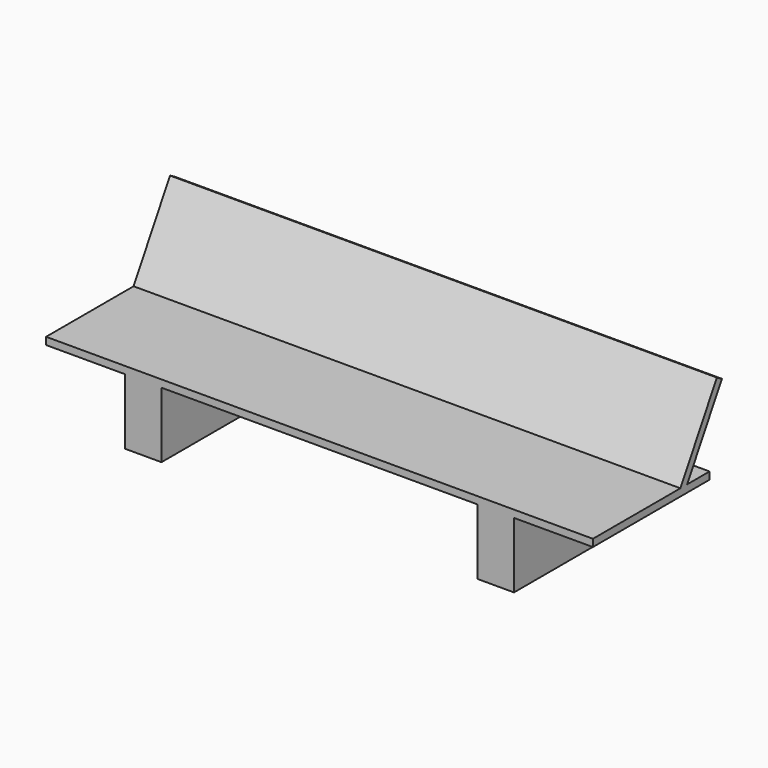
from build123d import *

# Parameters (mm, degrees)
F0_W     = 3000
F0_H     = 800
F1_DEPTH = 40
F2_W     = 200
F2_H     = 800
F3_DEPTH = 400
F5_DEPTH = 3000


with BuildPart() as f1:
    # F0 (on Top) → F1 (new body)
    with BuildSketch(Plane.XY):
        with Locations((1500, -400)):
            Rectangle(F0_W, F0_H)
    extrude(amount=F1_DEPTH)

    # F2 (on face) → F3 (join)
    with BuildSketch(Plane.XY.offset(40)):
        with Locations((533.02229, -400)):
            Rectangle(F2_W, F2_H)
        with Locations((2466.97771, -400)):
            Rectangle(F2_W, F2_H)
    extrude(amount=-F3_DEPTH)

    # F4 (on Right) → F5 (join, through all)
    with BuildSketch(Plane.YZ):
        Polygon((-165.358984, 20), (84.641016, 453.012702), (50, 473.012702), (-200, 40), align=None)
    extrude(amount=F5_DEPTH)


solid = f1.part
